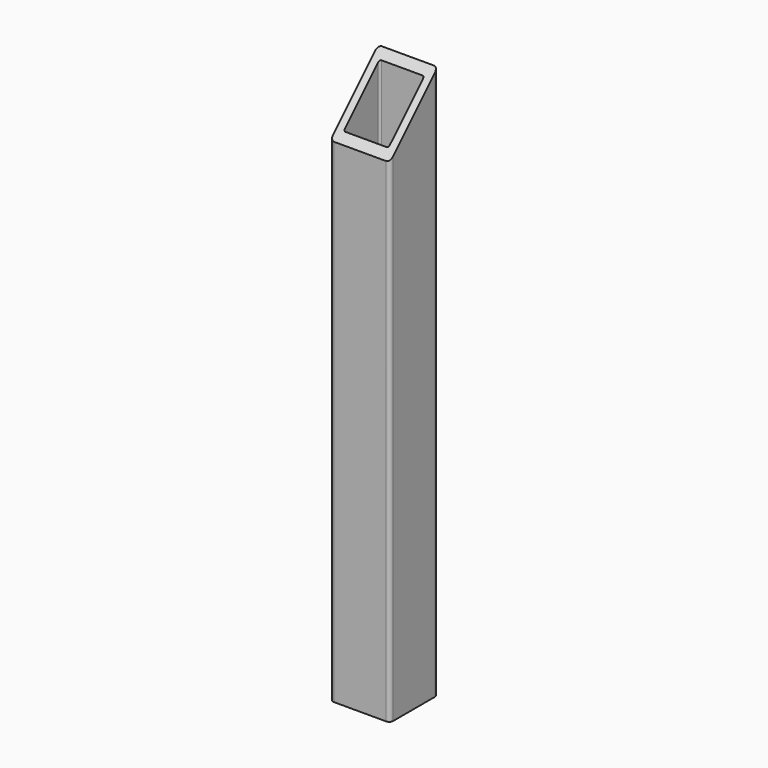
from build123d import *

# Parameters (mm, degrees)
F1_DEPTH = 469.9
F3_DEPTH = 50.801


with BuildPart() as f1:
    # F0 (on Top) → F1 (new body)
    with BuildSketch(Plane.XY):
        with BuildLine():
            Line((22.225, 25.4), (-22.225, 25.4))
            ThreePointArc((-22.225, 25.4), (-24.470064, 24.470064), (-25.4, 22.225))
            Line((-25.4, 22.225), (-25.4, -22.225))
            ThreePointArc((-25.4, -22.225), (-24.470064, -24.470064), (-22.225, -25.4))
            Line((-22.225, -25.4), (22.225, -25.4))
            ThreePointArc((22.225, -25.4), (24.470064, -24.470064), (25.4, -22.225))
            Line((25.4, -22.225), (25.4, 22.225))
            ThreePointArc((25.4, 22.225), (24.470064, 24.470064), (22.225, 25.4))
        make_face()
        with BuildLine():
            ThreePointArc((-19.05, 17.4625), (-18.585032, 18.585032), (-17.4625, 19.05))
            Line((-17.4625, 19.05), (17.4625, 19.05))
            ThreePointArc((17.4625, 19.05), (18.585032, 18.585032), (19.05, 17.4625))
            Line((19.05, 17.4625), (19.05, -17.4625))
            ThreePointArc((19.05, -17.4625), (18.585032, -18.585032), (17.4625, -19.05))
            Line((17.4625, -19.05), (-17.4625, -19.05))
            ThreePointArc((-17.4625, -19.05), (-18.585032, -18.585032), (-19.05, -17.4625))
            Line((-19.05, -17.4625), (-19.05, 17.4625))
        make_face(mode=Mode.SUBTRACT)
    extrude(amount=F1_DEPTH)

    # F2 (on face) → F3 (cut, through all)
    with BuildSketch(Plane.YZ.offset(25.4)):
        Polygon((-25.4, 419.1), (25.4, 469.9), (-25.4, 469.9), align=None)
    extrude(amount=-F3_DEPTH, mode=Mode.SUBTRACT)


solid = f1.part
